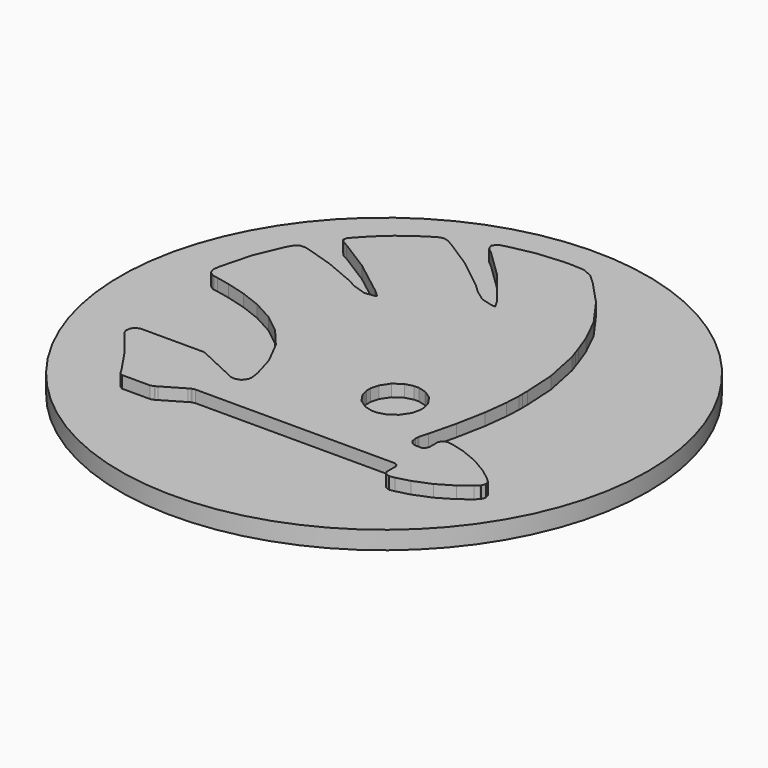
from build123d import *

# Parameters (mm, degrees)
F0_R     = 21.95
F1_DEPTH = 1.5
F2_DEPTH = 1


with BuildPart() as f1:
    # F0 (on Top) → F1 (new body)
    with BuildSketch(Plane.XY):
        Circle(F0_R)
        Polygon((15.5983255326, -8.8135356091), (15.8745563053, -9.0735473273), (15.9323366871, -9.1270195227), (16.0506851008, -9.4790236909), (15.9323366871, -9.8310278591), (15.8745563053, -9.8860205909), (15.5983255326, -10.1445117727), (14.6951269326, -10.8386366227), (13.3917738462, -11.6060006409), (11.9837571735, -12.17366755), (10.8702177099, -12.4681447591), (10.4933781144, -12.5284593682), (10.420392369, -12.5396099682), (10.1084289917, -12.4187273273), (9.9406631462, -12.1462978955), (9.9406631462, -12.0568396727), (9.9406631462, -11.9045326136), (9.9406631462, -11.4509059318), (9.9406631462, -11.2484211727), (9.9406631462, -11.1825312636), (9.823835269, -10.9843546909), (9.611973869, -10.8870403636), (9.5417757735, -10.8870403636), (6.4649704417, -10.8870403636), (-2.7664592447, -10.8870403636), (-6.8691197765, -10.8870403636), (-6.9623793401, -10.8870403636), (-7.240384072, -10.9405125591), (-7.2715550674, -10.9597726864), (-7.443882522, -11.0601280864), (-9.155499622, -12.0626683955), (-9.3257996947, -12.1642909091), (-9.358998072, -12.1822839227), (-9.628386431, -12.27402295), (-9.728741831, -12.27402295), (-10.1370058447, -12.27402295), (-11.3620513083, -12.27402295), (-11.9064033265, -12.27402295), (-11.987752022, -12.27402295), (-12.2267296538, -12.1146200545), (-12.2475103174, -12.0804079864), (-12.4842071447, -11.6845616864), (-13.770834331, -9.7800898909), (-15.1887344901, -7.9736926909), (-15.4882801538, -7.6282775136), (-15.5625330129, -7.5431274773), (-15.6986210174, -7.2159587364), (-15.6575665356, -6.82695485), (-15.3973013947, -6.5367858273), (-15.0605025901, -6.4224921773), (-14.9479828992, -6.4224921773), (-14.0131064583, -6.4224921773), (-11.2067031765, -6.4224921773), (-9.9596099356, -6.4224921773), (-9.8772475492, -6.4224921773), (-9.6299069674, -6.5051079864), (-9.6020304674, -6.5190462364), (-9.3382174083, -6.6424631045), (-6.6945115174, -7.8799262818), (-6.4289244992, -8.0053705318), (-6.3108295083, -8.0601098409), (-5.9025654947, -8.1138354591), (-5.4884727583, -7.9584873273), (-5.2340363401, -7.6173803364), (-5.1696669674, -7.2793144182), (-5.184872331, -7.1718631818), (-5.2753442447, -6.5476830045), (-5.8060114356, -4.7121421909), (-6.8235036856, -2.7215066682), (-8.1448497856, -1.1485118), (-9.6750162129, 0.0613283), (-11.3235310538, 0.9619926727), (-12.9928265583, 1.6039124409), (-14.5916705447, 2.0438542955), (-15.6669431765, 2.2696539455), (-16.0257897583, 2.3314890909), (-16.123610931, 2.3492286818), (-16.4933546901, 2.6130417409), (-16.6362851083, 3.0392987682), (-16.6213331674, 3.1371199409), (-16.542772122, 3.6472598909), (-15.8912222901, 6.1371381864), (-14.9135174083, 8.4486068818), (-14.6714987038, 8.8677680727), (-14.630444222, 8.9405003955), (-14.312652122, 9.1564165591), (-13.9152852856, 9.1865738636), (-13.8341900129, 9.1647795091), (-13.4576038401, 9.06822545), (-11.2660040947, 8.3781553636), (-8.8007078038, 7.3416564091), (-8.2849925538, 7.0707475136), (-8.018138422, 6.9303513227), (-6.919804322, 6.5646623273), (-6.125324072, 6.6749012136), (-6.0084961947, 6.7724689636), (-6.5804712901, 7.2932526682), (-9.4578329356, 9.50309885), (-11.987752022, 11.0923127727), (-12.3851188583, 11.3026536364), (-12.446700581, 11.3358520136), (-12.6476648038, 11.5639324682), (-12.5995144856, 11.8761492682), (-12.5404669901, 11.9433062909), (-12.2847634583, 12.2403177273), (-11.4763449583, 13.0956194318), (-10.4175448038, 14.0593860636), (-9.2875328629, 14.9063248182), (-8.335930522, 15.5183407045), (-8.0100288947, 15.7066337909), (-7.9385636856, 15.7476882727), (-7.5797171038, 15.7971057045), (-7.2196034083, 15.6815449409), (-7.1466176629, 15.6404904591), (-6.7299906992, 15.4068347045), (-4.388618122, 13.8999831682), (-1.8736509765, 11.9007312727), (-1.3693397492, 11.42100205), (-1.2165258447, 11.2752839818), (-0.3490598492, 10.6551585682), (0.6874391053, 10.3746196091), (0.9269235826, 10.3966673864), (0.5498305644, 11.0444158773), (-1.6853578901, 13.8695724409), (-3.9719911583, 16.0903158), (-4.3749332947, 16.4337035955), (-4.4588162174, 16.5051688045), (-4.6374792401, 16.9177410045), (-4.3239953265, 17.28343), (-4.1932291992, 17.3222036773), (-3.7905404856, 17.4443534318), (-1.7048714401, 17.8774528727), (0.459105228, 18.0687870318), (0.903355269, 18.0672664955), (1.1742641644, 18.0672664955), (1.986737428, 18.0312804682), (2.092668128, 18.0231709409), (2.190235878, 18.0163285273), (2.9933325008, 17.6742078455), (3.0663182462, 17.6080645136), (3.755121219, 16.9838843364), (5.673024419, 14.9392697727), (7.3131763099, 12.6404722136), (8.3207850735, 10.5806522864), (8.8572809871, 9.1234716045), (9.0247934099, 8.6325917818), (9.2531272871, 7.9617818227), (9.8539925735, 5.0167563091), (10.0024982917, 2.3958584636), (10.0065530553, 1.8859719364), (10.0093407053, 1.49139275), (9.9500397871, 0.3020798909), (9.720692219, -1.6447135), (9.2612368144, -4.0456404182), (8.7196724462, -6.2603016318), (8.5161739962, -6.9934535818), (8.4928591053, -7.0758159682), (8.4751195144, -7.3396290273), (8.5397423099, -7.7012632591), (8.7305696235, -7.9873775182), (8.9877936917, -8.1069930455), (9.0744642644, -8.1080067364), (9.1142516326, -8.1080067364), (9.433564269, -8.1080067364), (9.5526729508, -8.1080067364), (9.6218573553, -8.1080067364), (9.829410569, -7.9556996773), (9.9406631462, -7.7192562727), (9.9406631462, -7.6406952273), (9.9406631462, -7.5020729955), (9.9406631462, -7.0867131455), (9.9406631462, -6.9024748227), (9.9406631462, -6.8117494864), (10.1084289917, -6.5393200545), (10.420392369, -6.4186908364), (10.4933781144, -6.4295880136), (10.8702177099, -6.4886355091), (11.9837571735, -6.7843798318), (13.3917738462, -7.3520467409), (14.6951269326, -8.1194107591), align=None, mode=Mode.SUBTRACT)
        Polygon((15.9323366871, -9.1270195227), (15.8745563053, -9.0735473273), (15.5983255326, -8.8135356091), (14.6951269326, -8.1194107591), (13.3917738462, -7.3520467409), (11.9837571735, -6.7843798318), (10.8702177099, -6.4886355091), (10.4933781144, -6.4295880136), (10.420392369, -6.4186908364), (10.1084289917, -6.5393200545), (9.9406631462, -6.8117494864), (9.9406631462, -6.9024748227), (9.9406631462, -7.0867131455), (9.9406631462, -7.5020729955), (9.9406631462, -7.6406952273), (9.9406631462, -7.7192562727), (9.829410569, -7.9556996773), (9.6218573553, -8.1080067364), (9.5526729508, -8.1080067364), (9.433564269, -8.1080067364), (9.1142516326, -8.1080067364), (9.0744642644, -8.1080067364), (8.9877936917, -8.1069930455), (8.7305696235, -7.9873775182), (8.5397423099, -7.7012632591), (8.4751195144, -7.3396290273), (8.4928591053, -7.0758159682), (8.5161739962, -6.9934535818), (8.7196724462, -6.2603016318), (9.2612368144, -4.0456404182), (9.720692219, -1.6447135), (9.9500397871, 0.3020798909), (10.0093407053, 1.49139275), (10.0065530553, 1.8859719364), (10.0024982917, 2.3958584636), (9.8539925735, 5.0167563091), (9.2531272871, 7.9617818227), (9.0247934099, 8.6325917818), (8.8572809871, 9.1234716045), (8.3207850735, 10.5806522864), (7.3131763099, 12.6404722136), (5.673024419, 14.9392697727), (3.755121219, 16.9838843364), (3.0663182462, 17.6080645136), (2.9933325008, 17.6742078455), (2.190235878, 18.0163285273), (2.092668128, 18.0231709409), (1.986737428, 18.0312804682), (1.1742641644, 18.0672664955), (0.903355269, 18.0672664955), (0.459105228, 18.0687870318), (-1.7048714401, 17.8774528727), (-3.7905404856, 17.4443534318), (-4.1932291992, 17.3222036773), (-4.3239953265, 17.28343), (-4.6374792401, 16.9177410045), (-4.4588162174, 16.5051688045), (-4.3749332947, 16.4337035955), (-3.9719911583, 16.0903158), (-1.6853578901, 13.8695724409), (0.5498305644, 11.0444158773), (0.9269235826, 10.3966673864), (0.6874391053, 10.3746196091), (-0.3490598492, 10.6551585682), (-1.2165258447, 11.2752839818), (-1.3693397492, 11.42100205), (-1.8736509765, 11.9007312727), (-4.388618122, 13.8999831682), (-6.7299906992, 15.4068347045), (-7.1466176629, 15.6404904591), (-7.2196034083, 15.6815449409), (-7.5797171038, 15.7971057045), (-7.9385636856, 15.7476882727), (-8.0100288947, 15.7066337909), (-8.335930522, 15.5183407045), (-9.2875328629, 14.9063248182), (-10.4175448038, 14.0593860636), (-11.4763449583, 13.0956194318), (-12.2847634583, 12.2403177273), (-12.5404669901, 11.9433062909), (-12.5995144856, 11.8761492682), (-12.6476648038, 11.5639324682), (-12.446700581, 11.3358520136), (-12.3851188583, 11.3026536364), (-11.987752022, 11.0923127727), (-9.4578329356, 9.50309885), (-6.5804712901, 7.2932526682), (-6.0084961947, 6.7724689636), (-6.125324072, 6.6749012136), (-6.919804322, 6.5646623273), (-8.018138422, 6.9303513227), (-8.2849925538, 7.0707475136), (-8.8007078038, 7.3416564091), (-11.2660040947, 8.3781553636), (-13.4576038401, 9.06822545), (-13.8341900129, 9.1647795091), (-13.9152852856, 9.1865738636), (-14.312652122, 9.1564165591), (-14.630444222, 8.9405003955), (-14.6714987038, 8.8677680727), (-14.9135174083, 8.4486068818), (-15.8912222901, 6.1371381864), (-16.542772122, 3.6472598909), (-16.6213331674, 3.1371199409), (-16.6362851083, 3.0392987682), (-16.4933546901, 2.6130417409), (-16.123610931, 2.3492286818), (-16.0257897583, 2.3314890909), (-15.6669431765, 2.2696539455), (-14.5916705447, 2.0438542955), (-12.9928265583, 1.6039124409), (-11.3235310538, 0.9619926727), (-9.6750162129, 0.0613283), (-8.1448497856, -1.1485118), (-6.8235036856, -2.7215066682), (-5.8060114356, -4.7121421909), (-5.2753442447, -6.5476830045), (-5.184872331, -7.1718631818), (-5.1696669674, -7.2793144182), (-5.2340363401, -7.6173803364), (-5.4884727583, -7.9584873273), (-5.9025654947, -8.1138354591), (-6.3108295083, -8.0601098409), (-6.4289244992, -8.0053705318), (-6.6945115174, -7.8799262818), (-9.3382174083, -6.6424631045), (-9.6020304674, -6.5190462364), (-9.6299069674, -6.5051079864), (-9.8772475492, -6.4224921773), (-9.9596099356, -6.4224921773), (-11.2067031765, -6.4224921773), (-14.0131064583, -6.4224921773), (-14.9479828992, -6.4224921773), (-15.0605025901, -6.4224921773), (-15.3973013947, -6.5367858273), (-15.6575665356, -6.82695485), (-15.6986210174, -7.2159587364), (-15.5625330129, -7.5431274773), (-15.4882801538, -7.6282775136), (-15.1887344901, -7.9736926909), (-13.770834331, -9.7800898909), (-12.4842071447, -11.6845616864), (-12.2475103174, -12.0804079864), (-12.2267296538, -12.1146200545), (-11.987752022, -12.27402295), (-11.9064033265, -12.27402295), (-11.3620513083, -12.27402295), (-10.1370058447, -12.27402295), (-9.728741831, -12.27402295), (-9.628386431, -12.27402295), (-9.358998072, -12.1822839227), (-9.3257996947, -12.1642909091), (-9.155499622, -12.0626683955), (-7.443882522, -11.0601280864), (-7.2715550674, -10.9597726864), (-7.240384072, -10.9405125591), (-6.9623793401, -10.8870403636), (-6.8691197765, -10.8870403636), (-2.7664592447, -10.8870403636), (6.4649704417, -10.8870403636), (9.5417757735, -10.8870403636), (9.611973869, -10.8870403636), (9.823835269, -10.9843546909), (9.9406631462, -11.1825312636), (9.9406631462, -11.2484211727), (9.9406631462, -11.4509059318), (9.9406631462, -11.9045326136), (9.9406631462, -12.0568396727), (9.9406631462, -12.1462978955), (10.1084289917, -12.4187273273), (10.420392369, -12.5396099682), (10.4933781144, -12.5284593682), (10.8702177099, -12.4681447591), (11.9837571735, -12.17366755), (13.3917738462, -11.6060006409), (14.6951269326, -10.8386366227), (15.5983255326, -10.1445117727), (15.8745563053, -9.8860205909), (15.9323366871, -9.8310278591), (16.0506851008, -9.4790236909), align=None)
        Polygon((6.2173764371, -3.6302805682), (6.2173764371, -3.8459433091), (6.2173764371, -4.0603389364), (6.042768178, -4.7055532), (5.5683608326, -5.408041), (4.8658730326, -5.8821949227), (4.219645078, -6.0568031818), (4.0052494508, -6.0568031818), (3.7890798644, -6.0568031818), (3.1428519099, -5.8821949227), (2.4403641099, -5.408041), (1.9677307235, -4.7055532), (1.7941361553, -4.0603389364), (1.7941361553, -3.8459433091), (1.7941361553, -3.6302805682), (1.9677307235, -2.9840526136), (2.4403641099, -2.2815648136), (3.1428519099, -1.8071574682), (3.7890798644, -1.6338163227), (4.0052494508, -1.6338163227), (4.219645078, -1.6338163227), (4.8658730326, -1.8071574682), (5.5683608326, -2.2815648136), (6.042768178, -2.9840526136), align=None, mode=Mode.SUBTRACT)
        Polygon((6.2173764371, -4.0603389364), (6.2173764371, -3.8459433091), (6.2173764371, -3.6302805682), (6.042768178, -2.9840526136), (5.5683608326, -2.2815648136), (4.8658730326, -1.8071574682), (4.219645078, -1.6338163227), (4.0052494508, -1.6338163227), (3.7890798644, -1.6338163227), (3.1428519099, -1.8071574682), (2.4403641099, -2.2815648136), (1.9677307235, -2.9840526136), (1.7941361553, -3.6302805682), (1.7941361553, -3.8459433091), (1.7941361553, -4.0603389364), (1.9677307235, -4.7055532), (2.4403641099, -5.408041), (3.1428519099, -5.8821949227), (3.7890798644, -6.0568031818), (4.0052494508, -6.0568031818), (4.219645078, -6.0568031818), (4.8658730326, -5.8821949227), (5.5683608326, -5.408041), (6.042768178, -4.7055532), align=None)
    extrude(amount=-F1_DEPTH)

    # F0 (on Top) → F2 (join)
    with BuildSketch(Plane.XY):
        Polygon((15.9323366871, -9.1270195227), (15.8745563053, -9.0735473273), (15.5983255326, -8.8135356091), (14.6951269326, -8.1194107591), (13.3917738462, -7.3520467409), (11.9837571735, -6.7843798318), (10.8702177099, -6.4886355091), (10.4933781144, -6.4295880136), (10.420392369, -6.4186908364), (10.1084289917, -6.5393200545), (9.9406631462, -6.8117494864), (9.9406631462, -6.9024748227), (9.9406631462, -7.0867131455), (9.9406631462, -7.5020729955), (9.9406631462, -7.6406952273), (9.9406631462, -7.7192562727), (9.829410569, -7.9556996773), (9.6218573553, -8.1080067364), (9.5526729508, -8.1080067364), (9.433564269, -8.1080067364), (9.1142516326, -8.1080067364), (9.0744642644, -8.1080067364), (8.9877936917, -8.1069930455), (8.7305696235, -7.9873775182), (8.5397423099, -7.7012632591), (8.4751195144, -7.3396290273), (8.4928591053, -7.0758159682), (8.5161739962, -6.9934535818), (8.7196724462, -6.2603016318), (9.2612368144, -4.0456404182), (9.720692219, -1.6447135), (9.9500397871, 0.3020798909), (10.0093407053, 1.49139275), (10.0065530553, 1.8859719364), (10.0024982917, 2.3958584636), (9.8539925735, 5.0167563091), (9.2531272871, 7.9617818227), (9.0247934099, 8.6325917818), (8.8572809871, 9.1234716045), (8.3207850735, 10.5806522864), (7.3131763099, 12.6404722136), (5.673024419, 14.9392697727), (3.755121219, 16.9838843364), (3.0663182462, 17.6080645136), (2.9933325008, 17.6742078455), (2.190235878, 18.0163285273), (2.092668128, 18.0231709409), (1.986737428, 18.0312804682), (1.1742641644, 18.0672664955), (0.903355269, 18.0672664955), (0.459105228, 18.0687870318), (-1.7048714401, 17.8774528727), (-3.7905404856, 17.4443534318), (-4.1932291992, 17.3222036773), (-4.3239953265, 17.28343), (-4.6374792401, 16.9177410045), (-4.4588162174, 16.5051688045), (-4.3749332947, 16.4337035955), (-3.9719911583, 16.0903158), (-1.6853578901, 13.8695724409), (0.5498305644, 11.0444158773), (0.9269235826, 10.3966673864), (0.6874391053, 10.3746196091), (-0.3490598492, 10.6551585682), (-1.2165258447, 11.2752839818), (-1.3693397492, 11.42100205), (-1.8736509765, 11.9007312727), (-4.388618122, 13.8999831682), (-6.7299906992, 15.4068347045), (-7.1466176629, 15.6404904591), (-7.2196034083, 15.6815449409), (-7.5797171038, 15.7971057045), (-7.9385636856, 15.7476882727), (-8.0100288947, 15.7066337909), (-8.335930522, 15.5183407045), (-9.2875328629, 14.9063248182), (-10.4175448038, 14.0593860636), (-11.4763449583, 13.0956194318), (-12.2847634583, 12.2403177273), (-12.5404669901, 11.9433062909), (-12.5995144856, 11.8761492682), (-12.6476648038, 11.5639324682), (-12.446700581, 11.3358520136), (-12.3851188583, 11.3026536364), (-11.987752022, 11.0923127727), (-9.4578329356, 9.50309885), (-6.5804712901, 7.2932526682), (-6.0084961947, 6.7724689636), (-6.125324072, 6.6749012136), (-6.919804322, 6.5646623273), (-8.018138422, 6.9303513227), (-8.2849925538, 7.0707475136), (-8.8007078038, 7.3416564091), (-11.2660040947, 8.3781553636), (-13.4576038401, 9.06822545), (-13.8341900129, 9.1647795091), (-13.9152852856, 9.1865738636), (-14.312652122, 9.1564165591), (-14.630444222, 8.9405003955), (-14.6714987038, 8.8677680727), (-14.9135174083, 8.4486068818), (-15.8912222901, 6.1371381864), (-16.542772122, 3.6472598909), (-16.6213331674, 3.1371199409), (-16.6362851083, 3.0392987682), (-16.4933546901, 2.6130417409), (-16.123610931, 2.3492286818), (-16.0257897583, 2.3314890909), (-15.6669431765, 2.2696539455), (-14.5916705447, 2.0438542955), (-12.9928265583, 1.6039124409), (-11.3235310538, 0.9619926727), (-9.6750162129, 0.0613283), (-8.1448497856, -1.1485118), (-6.8235036856, -2.7215066682), (-5.8060114356, -4.7121421909), (-5.2753442447, -6.5476830045), (-5.184872331, -7.1718631818), (-5.1696669674, -7.2793144182), (-5.2340363401, -7.6173803364), (-5.4884727583, -7.9584873273), (-5.9025654947, -8.1138354591), (-6.3108295083, -8.0601098409), (-6.4289244992, -8.0053705318), (-6.6945115174, -7.8799262818), (-9.3382174083, -6.6424631045), (-9.6020304674, -6.5190462364), (-9.6299069674, -6.5051079864), (-9.8772475492, -6.4224921773), (-9.9596099356, -6.4224921773), (-11.2067031765, -6.4224921773), (-14.0131064583, -6.4224921773), (-14.9479828992, -6.4224921773), (-15.0605025901, -6.4224921773), (-15.3973013947, -6.5367858273), (-15.6575665356, -6.82695485), (-15.6986210174, -7.2159587364), (-15.5625330129, -7.5431274773), (-15.4882801538, -7.6282775136), (-15.1887344901, -7.9736926909), (-13.770834331, -9.7800898909), (-12.4842071447, -11.6845616864), (-12.2475103174, -12.0804079864), (-12.2267296538, -12.1146200545), (-11.987752022, -12.27402295), (-11.9064033265, -12.27402295), (-11.3620513083, -12.27402295), (-10.1370058447, -12.27402295), (-9.728741831, -12.27402295), (-9.628386431, -12.27402295), (-9.358998072, -12.1822839227), (-9.3257996947, -12.1642909091), (-9.155499622, -12.0626683955), (-7.443882522, -11.0601280864), (-7.2715550674, -10.9597726864), (-7.240384072, -10.9405125591), (-6.9623793401, -10.8870403636), (-6.8691197765, -10.8870403636), (-2.7664592447, -10.8870403636), (6.4649704417, -10.8870403636), (9.5417757735, -10.8870403636), (9.611973869, -10.8870403636), (9.823835269, -10.9843546909), (9.9406631462, -11.1825312636), (9.9406631462, -11.2484211727), (9.9406631462, -11.4509059318), (9.9406631462, -11.9045326136), (9.9406631462, -12.0568396727), (9.9406631462, -12.1462978955), (10.1084289917, -12.4187273273), (10.420392369, -12.5396099682), (10.4933781144, -12.5284593682), (10.8702177099, -12.4681447591), (11.9837571735, -12.17366755), (13.3917738462, -11.6060006409), (14.6951269326, -10.8386366227), (15.5983255326, -10.1445117727), (15.8745563053, -9.8860205909), (15.9323366871, -9.8310278591), (16.0506851008, -9.4790236909), align=None)
        Polygon((6.2173764371, -3.6302805682), (6.2173764371, -3.8459433091), (6.2173764371, -4.0603389364), (6.042768178, -4.7055532), (5.5683608326, -5.408041), (4.8658730326, -5.8821949227), (4.219645078, -6.0568031818), (4.0052494508, -6.0568031818), (3.7890798644, -6.0568031818), (3.1428519099, -5.8821949227), (2.4403641099, -5.408041), (1.9677307235, -4.7055532), (1.7941361553, -4.0603389364), (1.7941361553, -3.8459433091), (1.7941361553, -3.6302805682), (1.9677307235, -2.9840526136), (2.4403641099, -2.2815648136), (3.1428519099, -1.8071574682), (3.7890798644, -1.6338163227), (4.0052494508, -1.6338163227), (4.219645078, -1.6338163227), (4.8658730326, -1.8071574682), (5.5683608326, -2.2815648136), (6.042768178, -2.9840526136), align=None, mode=Mode.SUBTRACT)
    extrude(amount=F2_DEPTH)


solid = f1.part
